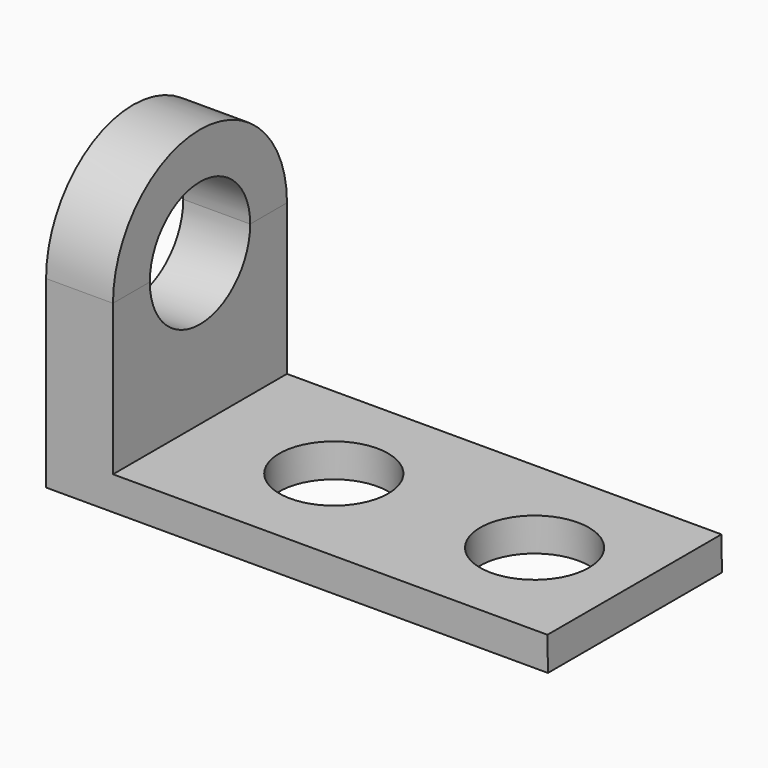
from build123d import *

# Parameters (mm, degrees)
F1_DEPTH  = 82.55
F2_W      = 25.4
F2_H      = 82.55
F3_DEPTH  = 57.15
F5_DEPTH  = 25.4
F7_R      = 23.8125
F6_R      = 23.8125
F8_DEPTH  = 25.401
F9_DEPTH  = 25.401
F10_R     = 20.6375
F11_DEPTH = 25.4


with BuildPart() as f1:
    # F0 (on Front) → F1 (new body)
    with BuildSketch(Plane.XZ):
        Polygon((0, 12.7), (0, 0), (190.5, 0), (190.3187632561, 12.7), align=None)
    extrude(amount=F1_DEPTH)

    # F2 (on face) → F3 (join)
    with BuildSketch(Plane.XY.offset(12.7)):
        with Locations((12.7, -41.275)):
            Rectangle(F2_W, F2_H)
    extrude(amount=F3_DEPTH)


with BuildPart() as f5:
    # F4 (on face) → F5 (new body)
    with BuildSketch(Plane.YZ.offset(25.4)):
        with BuildLine():
            Line((-82.55, 69.85), (0, 69.85))
            ThreePointArc((0, 69.85), (-41.275, 111.125), (-82.55, 69.85))
        make_face()
    extrude(amount=-F5_DEPTH)


with BuildPart() as f8_tool:
    # F7 (on face) + F6 (on face) → F8 (new body, through all)
    with BuildSketch(Plane.YZ.offset(25.4)):
        with Locations((-41.275, 69.85)):
            Circle(F7_R)
    with BuildSketch(Plane.YZ.offset(25.4)):
        with Locations((-41.275, 69.85)):
            Circle(F6_R)
        with BuildLine():
            Line((-65.0875, 69.85), (-17.4625, 69.85))
            ThreePointArc((-17.4625, 69.85), (-41.275, 93.6625), (-65.0875, 69.85))
        make_face()
        with BuildLine():
            ThreePointArc((-65.0875, 69.85), (-41.275, 46.0375), (-17.4625, 69.85))
            Line((-17.4625, 69.85), (-65.0875, 69.85))
        make_face()
    extrude(amount=-F8_DEPTH)


with BuildPart() as f1_1:
    add(f1.part)

    # F8: cut by f8_tool
    add(f8_tool.part, mode=Mode.SUBTRACT)

    # F6 (on face) → F9 (cut, through all)
    with BuildSketch(Plane.YZ.offset(25.4)):
        with Locations((-41.275, 69.85)):
            Circle(F6_R)
    extrude(amount=-F9_DEPTH, mode=Mode.SUBTRACT)

    # F10 (on face) → F11 (cut)
    with BuildSketch(Plane.XY.offset(12.7)):
        with Locations((76.2, -41.275)):
            Circle(F10_R)
        with Locations((152.4, -41.275)):
            Circle(F10_R)
    extrude(amount=-F11_DEPTH, mode=Mode.SUBTRACT)


with BuildPart() as f5_1:
    add(f5.part)

    # F8: cut by f8_tool
    add(f8_tool.part, mode=Mode.SUBTRACT)


solid = Compound([f1_1.part, f5_1.part])
